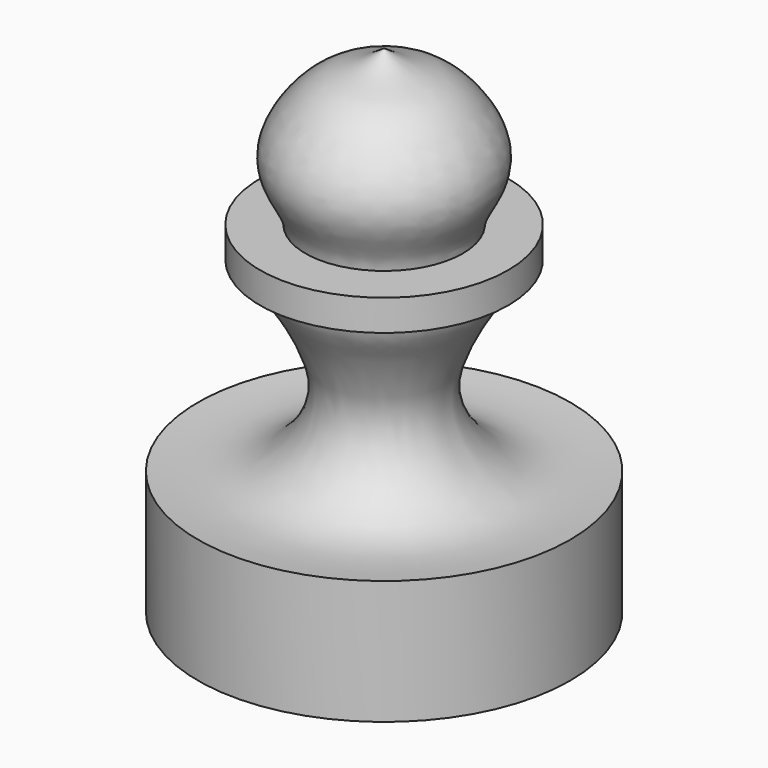
from build123d import *


with BuildPart() as f1:
    # F0 (on Front) → F1 (revolve)
    with BuildSketch(Plane.XZ):
        Polygon((8.0590434372, 34.925), (0, 34.925), (0, 31.75), (9.525, 31.75), (12.7, 31.75), (12.7, 34.925), align=None)
        with BuildLine():
            add(Edge.make_bspline(
                [(8.0590434372, 34.925), (8.0801666743, 36.1836217119), (10.1005855868, 38.6917204741), (10.4899829793, 43.1340571973), (6.1780635241, 48.4368706408), (2.4422159907, 49.091549413), (0.7479385511, 50.3117429246), (0, 50.8)],
                knots=[0, 0, 0, 0, 0.1990112076, 0.4001865734, 0.6462552798, 0.8352194878, 1, 1, 1, 1], degree=3))
            Line((0, 50.8), (0, 34.925))
            Line((0, 34.925), (8.0590434372, 34.925))
        make_face()
        with BuildLine():
            Line((9.525, 31.75), (0, 31.75))
            Line((0, 31.75), (0, 0))
            Line((0, 0), (19.05, 0))
            Line((19.05, 0), (19.05, 12.7))
            add(Edge.make_bspline(
                [(19.05, 12.7), (16.4092540724, 12.3885615006), (12.1234984713, 11.9052193157), (7.3633810009, 15.4085711476), (5.4668935913, 20.1191864271), (6.8431097665, 24.2677917919), (8.5474420414, 27.4598065022), (9.6247830583, 28.9446629525), (10.6687785353, 31.203232496), (9.525, 31.75)],
                knots=[0, 0, 0, 0, 0.1866030486, 0.3507134693, 0.5048736331, 0.6514701171, 0.783539218, 0.8867967208, 1, 1, 1, 1], degree=3))
        make_face()
    revolve(axis=Axis((0, 0, 25.4), (0, 0, -1)))


solid = f1.part
